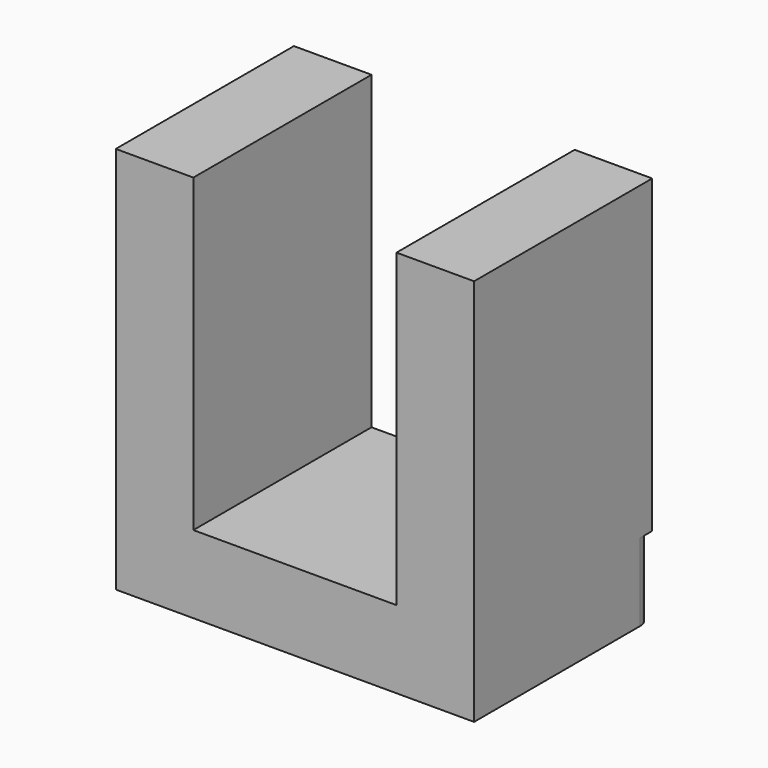
from build123d import *

# Parameters (mm, degrees)
F0_W     = 117.30712
F0_H     = 72.89958
F1_DEPTH = 25.4
F2_R     = 5.08
F3_R     = 5.08
F4_W     = 25.4
F4_H     = 72.89958
F5_DEPTH = 101.6


with BuildPart() as f1:
    # F0 (on Top) → F1 (new body)
    with BuildSketch(Plane.XY):
        Rectangle(F0_W, F0_H)
    extrude(amount=F1_DEPTH)

    # F2
    f2_edges = [f1.edges().sort_by_distance(p)[0] for p in [
        (58.65356, 36.44979, 12.7),
    ]]
    fillet(f2_edges, radius=F2_R)

    # F3
    f3_edges = [f1.edges().sort_by_distance(p)[0] for p in [
        (-58.65356, 36.44979, 12.7),
    ]]
    fillet(f3_edges, radius=F3_R)

    # F4 (on face) → F5 (join)
    with BuildSketch(Plane.XY.offset(25.4)):
        with Locations((-45.95356, 0)):
            Rectangle(F4_W, F4_H)
        with Locations((45.95356, 0)):
            Rectangle(F4_W, F4_H)
    extrude(amount=F5_DEPTH)


solid = f1.part
